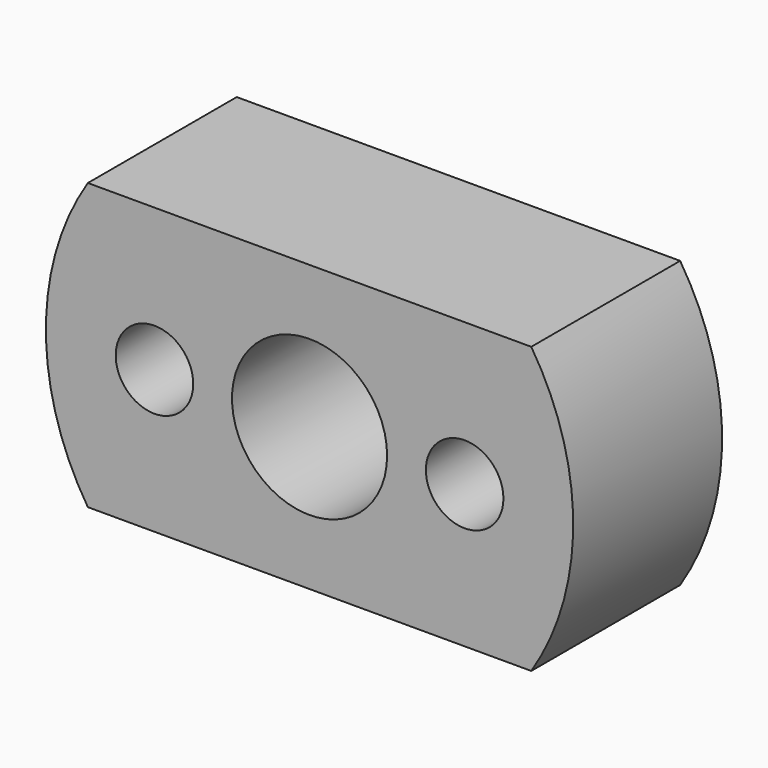
from build123d import *

# Parameters (mm, degrees)
F0_R     = 17
F0_R_2   = 2.5
F0_R_3   = 5
F1_DEPTH = 12
F3_DEPTH = 25


with BuildPart() as f1:
    # F0 (on Front) → F1 (new body)
    with BuildSketch(Plane.XZ):
        Circle(F0_R)
        with Locations((-10, 0)):
            Circle(F0_R_2, mode=Mode.SUBTRACT)
        Circle(F0_R_3, mode=Mode.SUBTRACT)
        with Locations((10, 0)):
            Circle(F0_R_2, mode=Mode.SUBTRACT)
    extrude(amount=F1_DEPTH)

    # F2 (on face) → F3 (cut)
    with BuildSketch(Plane(origin=(0, 0, 0), x_dir=(-1, 0, 0), z_dir=(0, 1, 0))):
        with BuildLine():
            ThreePointArc((14.2954538228, 9.2), (0, 17), (-14.2954538228, 9.2))
            Line((-14.2954538228, 9.2), (14.2954538228, 9.2))
        make_face()
        with BuildLine():
            Line((14.2954538228, -9.2), (-14.2954538228, -9.2))
            ThreePointArc((-14.2954538228, -9.2), (0, -17), (14.2954538228, -9.2))
        make_face()
    extrude(amount=-F3_DEPTH, mode=Mode.SUBTRACT)


solid = f1.part
